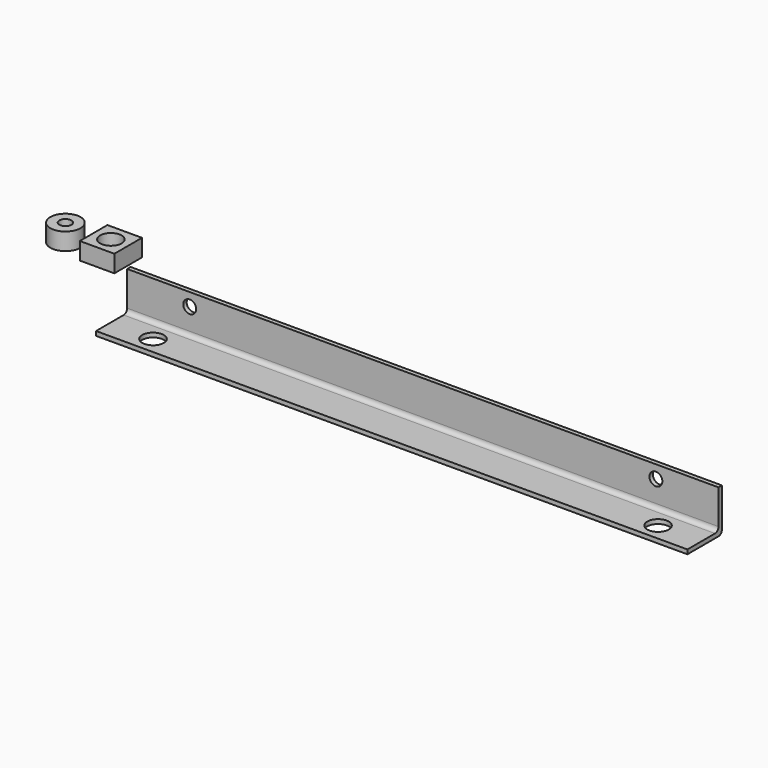
from build123d import *

# Parameters (mm, degrees)
F1_DEPTH  = 137
F2_R      = 1.5
F3_DEPTH  = 2
F4_R      = 2.5
F5_DEPTH  = 2
F6_R      = 1
F7_W      = 8
F7_H      = 8
F7_R      = 2.5
F8_DEPTH  = 4
F9_R      = 3.5
F9_R_2    = 1.4
F10_DEPTH = 4


with BuildPart() as f1:
    # F0 (on Right) → F1 (new body)
    with BuildSketch(Plane.YZ):
        Polygon((-31.131944, 10.623299), (-31.131944, 20.623299), (-32.131944, 20.623299), (-32.131944, 11.623299), (-41.131944, 11.623299), (-41.131944, 10.623299), align=None)
    extrude(amount=F1_DEPTH)

    # F2 (on face) → F3 (cut)
    with BuildSketch(Plane.XZ.offset(32.131944)):
        with Locations((14.5, 17.623299)):
            Circle(F2_R)
        with Locations((122.5, 17.623299)):
            Circle(F2_R)
    extrude(amount=-F3_DEPTH, mode=Mode.SUBTRACT)

    # F4 (on face) → F5 (cut)
    with BuildSketch(Plane.XY.offset(11.623299)):
        with Locations((10, -37.131944)):
            Circle(F4_R)
        with Locations((127, -37.131944)):
            Circle(F4_R)
    extrude(amount=-F5_DEPTH, mode=Mode.SUBTRACT)

    # F6
    f6_edges = [f1.edges().sort_by_distance(p)[0] for p in [
        (68.5, -31.131944, 10.623299),
        (68.5, -32.131944, 11.623299),
    ]]
    fillet(f6_edges, radius=F6_R)


with BuildPart() as f8:
    # F7 (on Top) → F8 (new body)
    with BuildSketch(Plane.XY):
        with Locations((-29.467783, 0)):
            Rectangle(F7_W, F7_H)
        with Locations((-29.467783, 0)):
            Circle(F7_R, mode=Mode.SUBTRACT)
    extrude(amount=F8_DEPTH)


with BuildPart() as f10:
    # F9 (on Top) → F10 (new body)
    with BuildSketch(Plane.XY):
        with Locations((-40, 0)):
            Circle(F9_R)
        with Locations((-40, 0)):
            Circle(F9_R_2, mode=Mode.SUBTRACT)
    extrude(amount=F10_DEPTH)


solid = Compound([f1.part, f8.part, f10.part])
